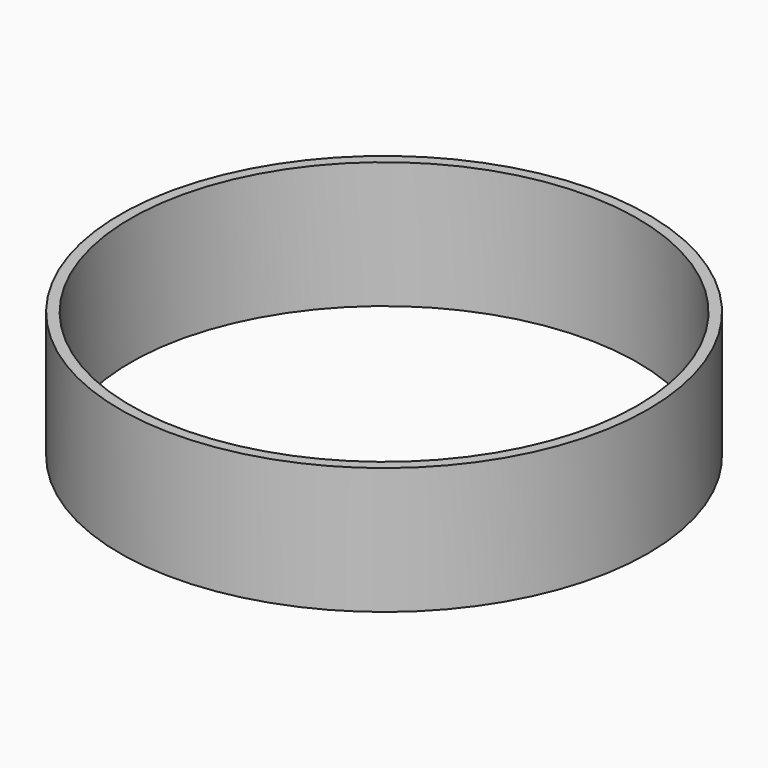
from build123d import *

# Parameters (mm, degrees)
CYLINDER_R     = 1250
CYLINDER_DEPTH = 600
SKETCH001_R    = 1200
POCKET_DEPTH   = 600


with BuildPart() as part:
    # Cylinder → Cylinder (new body)
    with BuildSketch(Plane.XY):
        Circle(CYLINDER_R)
    extrude(amount=CYLINDER_DEPTH)

    # Sketch001 → Pocket (cut)
    with BuildSketch(Plane.XY.offset(600)):
        Circle(SKETCH001_R)
    extrude(amount=-POCKET_DEPTH, mode=Mode.SUBTRACT)


solid = part.part
